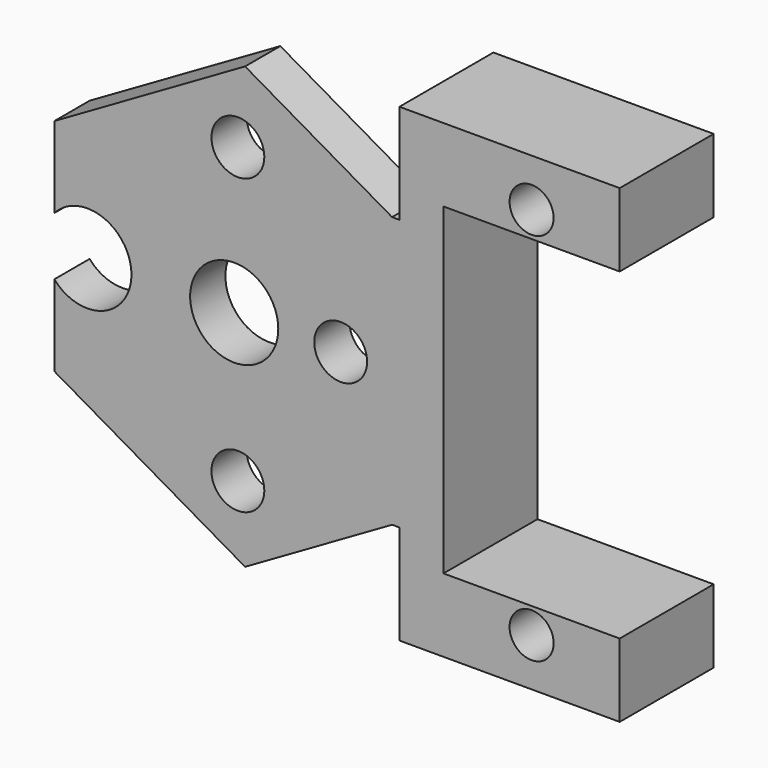
from build123d import *

# Parameters (mm, degrees)
SKETCH180_R     = 1.5
PAD127016_DEPTH = 5
SKETCH178_R     = 1.8
SKETCH178_R_2   = 1.5
SKETCH178_R_3   = 3
PAD127015_DEPTH = 3


with BuildPart() as pad127016:
    # Sketch180 → Pad127016 (new body)
    with BuildSketch(Plane.XZ.offset(-27)):
        Polygon((40, -9.220944), (40, 9.220944), (40, 16), (55, 16), (55, 11), (43, 11), (43, -11), (55, -11), (55, -16), (40, -16), align=None)
        with Locations((49, 12.75)):
            Circle(SKETCH180_R, mode=Mode.SUBTRACT)
        with Locations((49, -12.75)):
            Circle(SKETCH180_R, mode=Mode.SUBTRACT)
    extrude(amount=-PAD127016_DEPTH)


with BuildPart() as brakemount:
    # Sketch178 → Pad127015 (new body)
    with BuildSketch(Plane.XZ.offset(-27)):
        with BuildLine():
            Line((29.490381, 15), (16.5, 7.5))
            Line((16.5, 1.984313), (16.5, 7.5))
            ThreePointArc((16.5, -1.984313), (21.75, 0), (16.5, 1.984313))
            Line((16.5, -1.984313), (16.5, -7.5))
            Line((16.5, -7.5), (29.490381, -15))
            Line((29.490381, -15), (39.5, -9.220944))
            Line((39.5, -9.220944), (40, -9.220944))
            Line((40, -16), (40, -9.220944))
            Line((55, -16), (40, -16))
            Line((55, -11), (55, -16))
            Line((55, -11), (43, -11))
            Line((43, -11), (43, 11))
            Line((43, 11), (55, 11))
            Line((55, 11), (55, 16))
            Line((55, 16), (40, 16))
            Line((40, 16), (40, 9.220944))
            Line((39.5, 9.220944), (40, 9.220944))
            Line((29.490381, 15), (39.5, 9.220944))
        make_face()
        with Locations((29, 10)):
            Circle(SKETCH178_R, mode=Mode.SUBTRACT)
        with Locations((36, 0)):
            Circle(SKETCH178_R, mode=Mode.SUBTRACT)
        with Locations((29, -10)):
            Circle(SKETCH178_R, mode=Mode.SUBTRACT)
        with Locations((49, 12.75)):
            Circle(SKETCH178_R_2, mode=Mode.SUBTRACT)
        with Locations((49, -12.75)):
            Circle(SKETCH178_R_2, mode=Mode.SUBTRACT)
        with Locations((28.75, 0)):
            Circle(SKETCH178_R_3, mode=Mode.SUBTRACT)
    extrude(amount=PAD127015_DEPTH)

    # Fusion004020019: union Pad127016
    add(pad127016.part)


solid = brakemount.part
